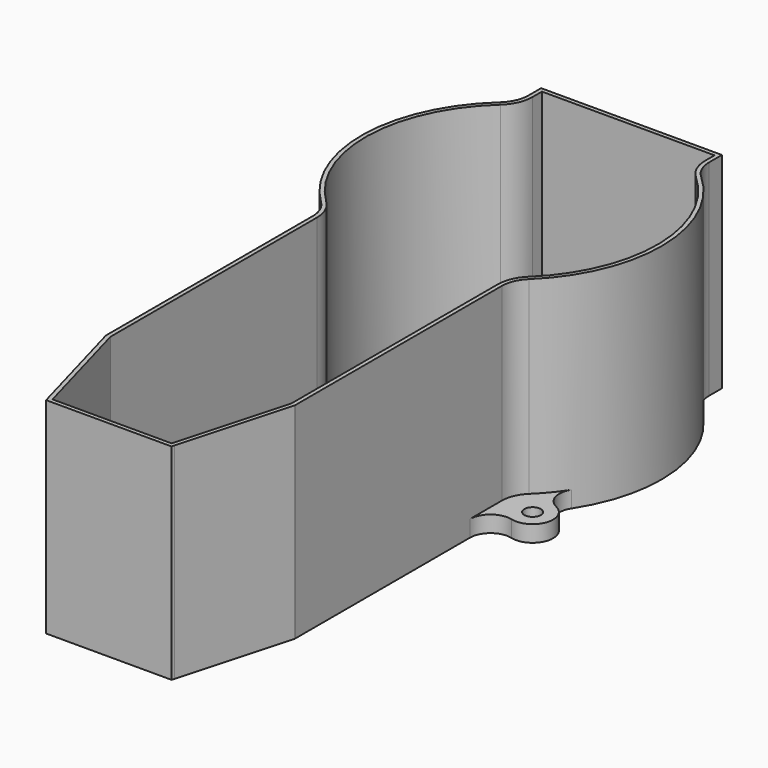
from build123d import *

# Parameters (mm, degrees)
PAD_DEPTH    = 50
SKETCH002_R  = 2
PAD001_DEPTH = 4


with BuildPart() as part:
    # Sketch001 → Pad (new body)
    with BuildSketch(Plane.XY):
        with BuildLine():
            ThreePointArc((24.6079709899, -25.5870624293), (35.4957154017, 0.5515325195), (23.8011399143, 26.3392433221))
            ThreePointArc((21, 32.6458259116), (21.7317857314, 29.1954865465), (23.8011399143, 26.3392433221))
            Line((21, 32.6458259116), (21, 35.5))
            Line((21, 35.5), (0, 35.5))
            Line((0, 35.5), (0, 36.5))
            Line((0, 36.5), (21, 36.5))
            Line((21, 36.5), (22, 36.5))
            Line((22, 35.5), (22, 36.5))
            Line((22, 35.5), (22, 32.6458259714))
            ThreePointArc((22, 32.6458259714), (22.6456934726, 29.60140851), (24.4715946777, 27.0811937316))
            ThreePointArc((25.301164957, -26.3078135127), (36.4955945841, 0.5670766728), (24.4715946777, 27.0811937316))
            ThreePointArc((25.3011649571, -26.3078135128), (23.599229725, -28.7759828987), (23, -31.7135613893))
            Line((23, -31.7135613893), (23, -94.5000000518))
            ThreePointArc((22.9635179252, -94.7676438078), (22.9908375021, -94.6350594104), (23, -94.5000000518))
            Line((22.9635179252, -94.7676438078), (15.4635179477, -121.7676437268))
            Line((15.4635179477, -121.7676437268), (15.2600857185, -122.5))
            Line((14.4999999216, -122.5), (15.2600857185, -122.5))
            Line((14.4999999216, -122.5), (0, -122.5))
            Line((0, -122.5), (0, -121.5))
            Line((0, -121.5), (14.5, -121.5))
            Line((14.5, -121.5), (22, -94.5))
            Line((22, -94.5), (22, -31.7135612569))
            ThreePointArc((24.60797099, -25.5870624293), (22.6791227009, -28.3843158664), (22, -31.7135612569))
        make_face()
    pad = extrude(amount=PAD_DEPTH)

    # Sketch002 → Pad001 (join)
    with BuildSketch(Plane.XY):
        with BuildLine():
            ThreePointArc((29.2499999325, -36.5547909331), (35.2028127321, -33.411664358), (32.6312648681, -27.1905417522))
            ThreePointArc((30.5742701704, -19.9364992801), (29.9521887014, -24.0315673865), (32.6312648681, -27.1905417522))
            Line((30.5742701704, -19.9364992801), (28.638855, -21.477074))
            Line((28.638855, -21.477074), (25.3011353077, -26.3078420275))
            ThreePointArc((25.3011353077, -26.3078420275), (23.5992215491, -28.776002105), (23, -31.7135620015))
            Line((22.267235, -41.500957), (23, -31.7135620015))
            Line((23, -41.3960200869), (22.267235, -41.500957))
            ThreePointArc((29.2499999325, -36.5547909331), (24.9381378123, -37.4431730652), (23, -41.3960200869))
        make_face()
        with Locations((30.5, -31.7135617678)):
            Circle(SKETCH002_R, mode=Mode.SUBTRACT)
    pad001 = extrude(amount=PAD001_DEPTH)

    # Mirrored: Pad, Pad001 across Sketch001 V_Axis
    add(pad.mirror(Plane(origin=(0, 0, 0), x_dir=(0, 0, 1), z_dir=(1, 0, 0))))
    add(pad001.mirror(Plane(origin=(0, 0, 0), x_dir=(0, 0, 1), z_dir=(1, 0, 0))))


solid = part.part
